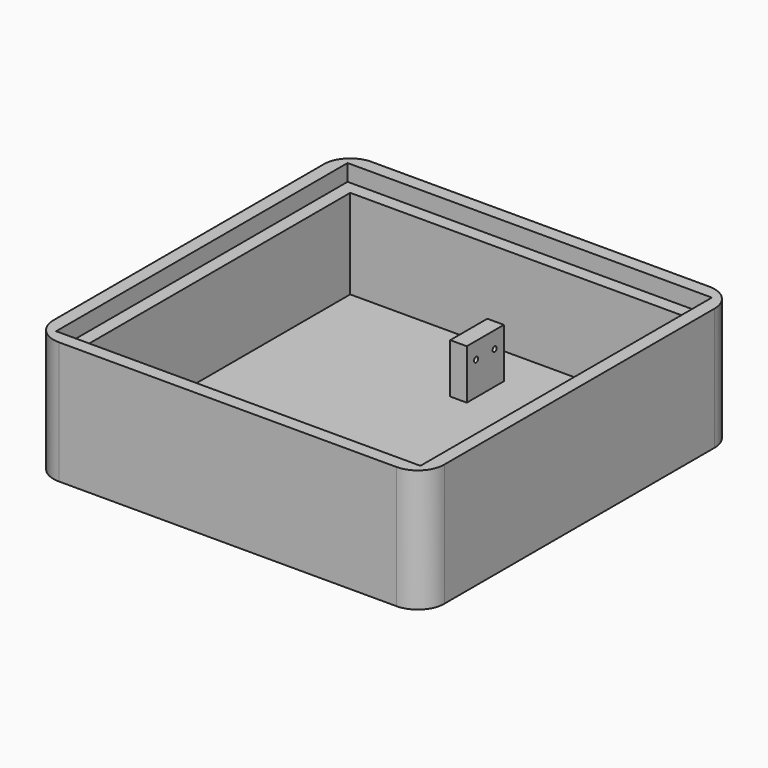
from build123d import *

# Parameters (mm, degrees)
F0_W      = 59
F0_H      = 59
F0_W_2    = 51
F0_H_2    = 51
F1_DEPTH  = 16
F2_W      = 59
F2_H      = 59
F2_W_2    = 55
F2_H_2    = 55
F3_DEPTH  = 2.5
F4_W      = 51
F4_H      = 51
F5_DEPTH  = 2.5
F7_W      = 2.5
F7_H      = 7
F8_DEPTH  = 10
F9_R      = 0.4
F10_DEPTH = 2.5
F10_TAPER = 0.25
F11_R     = 4
F12_R     = 4
F14_DEPTH = 25


with BuildPart() as f1:
    # F0 (on Top) → F1 (new body)
    with BuildSketch(Plane.XY):
        Rectangle(F0_W, F0_H)
        Rectangle(F0_W_2, F0_H_2, mode=Mode.SUBTRACT)
    extrude(amount=F1_DEPTH)

    # F2 (on face) → F3 (join)
    with BuildSketch(Plane.XY.offset(16)):
        Rectangle(F2_W, F2_H)
        Rectangle(F2_W_2, F2_H_2, mode=Mode.SUBTRACT)
    extrude(amount=F3_DEPTH)

    # F4 (on face) → F5 (join)
    with BuildSketch(Plane(origin=(0, 0, 0), x_dir=(1, 0, 0), z_dir=(0, 0, -1))):
        Rectangle(F4_W, F4_H)
    extrude(amount=-F5_DEPTH)

    # F7 (on face) → F8 (join)
    with BuildSketch(Plane.XY):
        with Locations((1.25, 16)):
            Rectangle(F7_W, F7_H)
    extrude(amount=F8_DEPTH)

    # F9 (on face) → F10 (cut)
    with BuildSketch(Plane(origin=(0, 0, 0), x_dir=(0, -1, 0), z_dir=(-1, 0, 0))):
        with Locations((-17.75, 7.5)):
            Circle(F9_R)
        with Locations((-14.25, 7.5)):
            Circle(F9_R)
    extrude(amount=-F10_DEPTH, taper=F10_TAPER, mode=Mode.SUBTRACT)

    # F11
    f11_edges = [f1.edges().sort_by_distance(p)[0] for p in [
        (29.5, 29.5, 9.25),
    ]]
    fillet(f11_edges, radius=F11_R)

    # F12
    f12_edges = [f1.edges().sort_by_distance(p)[0] for p in [
        (-29.5, 29.5, 9.25),
        (-29.5, -29.5, 9.25),
        (29.5, -29.5, 9.25),
    ]]
    fillet(f12_edges, radius=F12_R)

    # F13 (on face) → F14 (cut)
    with BuildSketch(Plane.YZ.offset(-25.5)):
        Polygon((-16.1905989232, 2.5), (-13.8811978465, 6.5), (-16.1905989232, 10.5), (-20.8094010768, 10.5), (-23.1188021535, 6.5), (-20.8094010768, 2.5), align=None)
    extrude(amount=-F14_DEPTH, mode=Mode.SUBTRACT)


solid = f1.part
